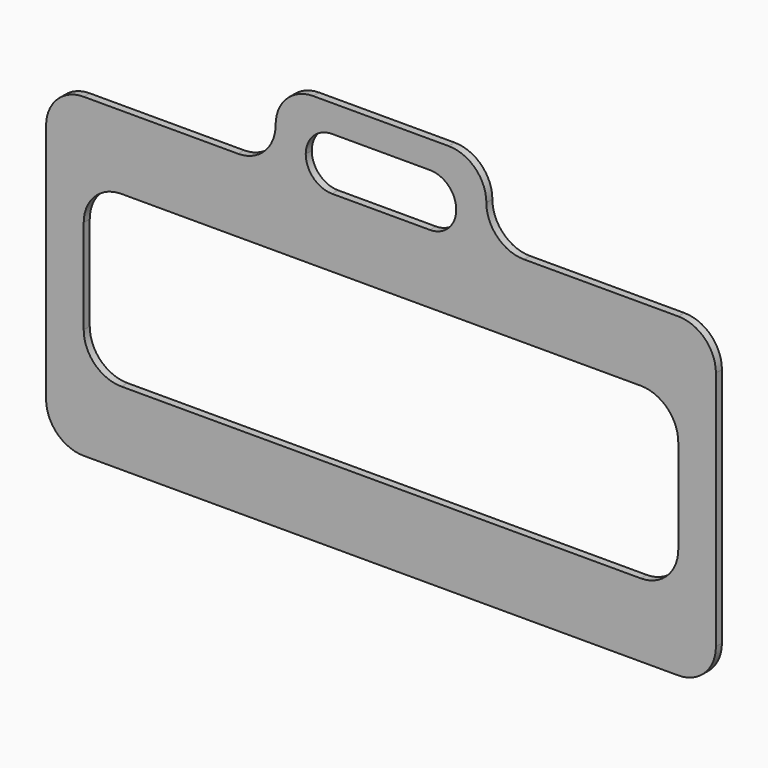
from build123d import *

# Parameters (mm, degrees)
F1_DEPTH = 5


with BuildPart() as f1:
    # F0 (on Front) → F1 (new body)
    with BuildSketch(Plane.XZ):
        with BuildLine():
            Line((5.23557, 144.859601), (-97.26443, 144.859601))
            ThreePointArc((-97.26443, 144.859601), (-114.942099, 137.53727), (-122.26443, 119.859601))
            Line((-122.26443, 119.859601), (-122.26443, -40.140399))
            ThreePointArc((-122.26443, -40.140399), (-114.942099, -57.818069), (-97.26443, -65.140399))
            Line((-97.26443, -65.140399), (297.73557, -65.140399))
            ThreePointArc((297.73557, -65.140399), (315.41324, -57.818069), (322.73557, -40.140399))
            Line((322.73557, -40.140399), (322.73557, 119.859601))
            ThreePointArc((322.73557, 119.859601), (315.41324, 137.53727), (297.73557, 144.859601))
            Line((297.73557, 144.859601), (195.23557, 144.859601))
            ThreePointArc((195.23557, 144.859601), (177.557901, 152.181931), (170.23557, 169.859601))
            ThreePointArc((170.23557, 169.859601), (162.91324, 187.53727), (145.23557, 194.859601))
            Line((145.23557, 194.859601), (55.23557, 194.859601))
            ThreePointArc((55.23557, 194.859601), (37.557901, 187.53727), (30.23557, 169.859601))
            ThreePointArc((30.23557, 169.859601), (22.91324, 152.181931), (5.23557, 144.859601))
        make_face()
        with BuildLine():
            ThreePointArc((-97.26443, 71.188474), (-89.942099, 88.866144), (-72.26443, 96.188474))
            Line((-72.26443, 96.188474), (272.73557, 96.188474))
            ThreePointArc((272.73557, 96.188474), (290.41324, 88.866144), (297.73557, 71.188474))
            Line((297.73557, 71.188474), (297.73557, 8.530727))
            ThreePointArc((297.73557, 8.530727), (290.41324, -9.146943), (272.73557, -16.469273))
            Line((272.73557, -16.469273), (-72.26443, -16.469273))
            ThreePointArc((-72.26443, -16.469273), (-89.942099, -9.146943), (-97.26443, 8.530727))
            Line((-97.26443, 8.530727), (-97.26443, 71.188474))
        make_face(mode=Mode.SUBTRACT)
        with BuildLine():
            ThreePointArc((150.23557, 159.274037), (145.109939, 146.899669), (132.73557, 141.774037))
            Line((132.73557, 141.774037), (67.73557, 141.774037))
            ThreePointArc((67.73557, 141.774037), (55.361201, 146.899669), (50.23557, 159.274037))
            ThreePointArc((50.23557, 159.274037), (55.361201, 171.648406), (67.73557, 176.774037))
            Line((67.73557, 176.774037), (132.73557, 176.774037))
            ThreePointArc((132.73557, 176.774037), (145.109939, 171.648406), (150.23557, 159.274037))
        make_face(mode=Mode.SUBTRACT)
    extrude(amount=F1_DEPTH)


solid = f1.part
